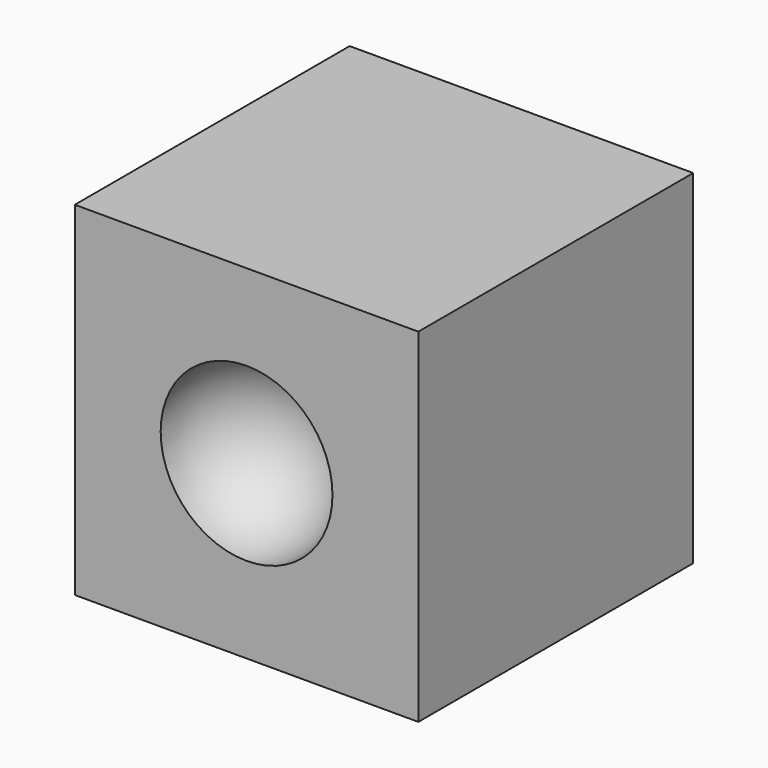
from build123d import *

# Parameters (mm, degrees)
BOX001_W     = 1
BOX001_H     = 1
BOX001_DEPTH = 1


with BuildPart() as sphere001:
    # Sphere001 → Sphere001 (revolve)
    with BuildSketch(Plane.XZ):
        with BuildLine():
            ThreePointArc((0, -0.25), (0.25, 0), (0, 0.25))
            Line((0, 0.25), (0, -0.25))
        make_face()
    revolve(axis=Axis((0, 0, 0), (0, 0, 1)))


with BuildPart() as cut001:
    # Box001 → Box001 (new body)
    with BuildSketch(Plane(origin=(-0.5, 0, -0.5), x_dir=(1, 0, 0), z_dir=(0, 0, 1))):
        with Locations((0.5, 0.5)):
            Rectangle(BOX001_W, BOX001_H)
    extrude(amount=BOX001_DEPTH)

    # Cut001: cut Sphere001
    add(sphere001.part, mode=Mode.SUBTRACT)


solid = cut001.part
